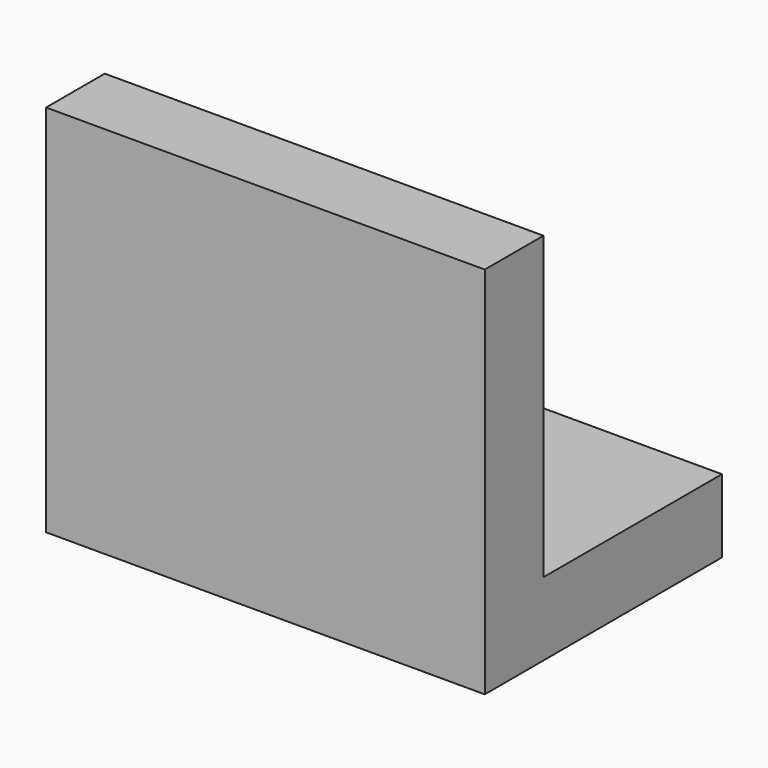
from build123d import *

# Parameters (mm, degrees)
F0_W     = 75.966939
F0_H     = 64.764068
F1_DEPTH = 12.7
F2_W     = 75.899899
F2_H     = 38.634967
F3_DEPTH = 12.7


with BuildPart() as f1:
    # F0 (on Front) → F1 (new body)
    with BuildSketch(Plane.XZ):
        with Locations((-37.983469, 32.382034)):
            Rectangle(F0_W, F0_H)
    extrude(amount=F1_DEPTH)

    # F2 (on Top) → F3 (join)
    with BuildSketch(Plane.XY):
        with Locations((-37.949949, 19.317483)):
            Rectangle(F2_W, F2_H)
    extrude(amount=F3_DEPTH)


solid = f1.part
